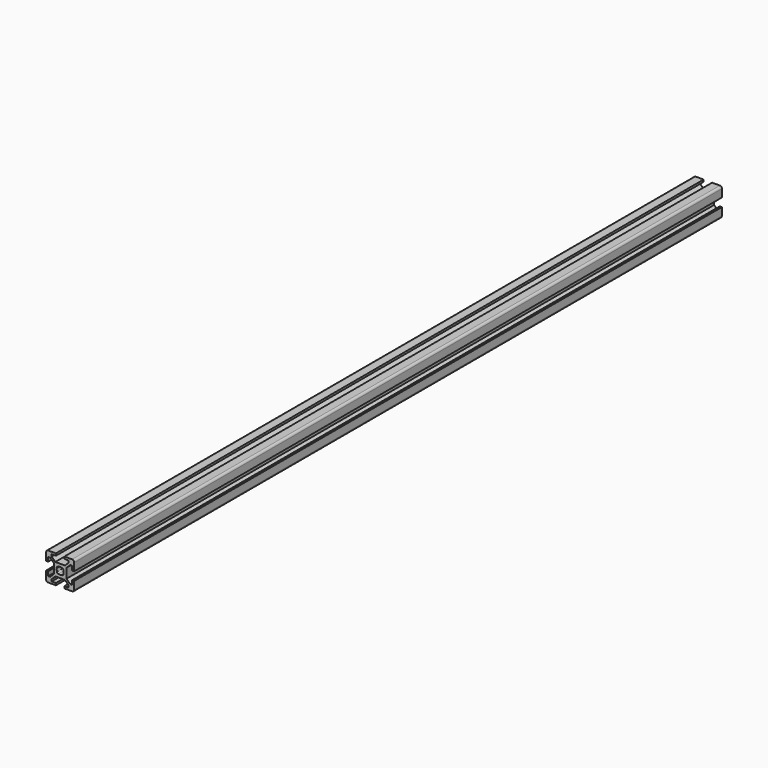
from build123d import *

# Parameters (mm, degrees)
F1_DEPTH = 575


with BuildPart() as f1:
    # F0 (on Front) → F1 (new body)
    with BuildSketch(Plane.XZ):
        with BuildLine():
            Line((3, -10), (8.5, -10))
            ThreePointArc((8.5, -10), (9.5606601718, -9.5606601718), (10, -8.5))
            Line((10, -8.5), (10, -3))
            Line((10, -3), (8.5, -3))
            Line((8.5, -3), (8.5, -6))
            Line((8.5, -6), (7.0606601718, -6))
            Line((7.0606601718, -6), (4.5, -3.4393398282))
            Line((4.5, -3.4393398282), (4.5, 3.4393398282))
            Line((4.5, 3.4393398282), (7.0606601718, 6))
            Line((7.0606601718, 6), (8.5, 6))
            Line((8.5, 6), (8.5, 3))
            Line((8.5, 3), (10, 3))
            Line((10, 3), (10, 8.5))
            ThreePointArc((10, 8.5), (9.5606601718, 9.5606601718), (8.5, 10))
            Line((8.5, 10), (3, 10))
            Line((3, 10), (3, 8.5))
            Line((3, 8.5), (6, 8.5))
            Line((6, 8.5), (6, 7.0606601718))
            Line((6, 7.0606601718), (3.4393398282, 4.5))
            Line((3.4393398282, 4.5), (-3.4393398282, 4.5))
            Line((-3.4393398282, 4.5), (-6, 7.0606601718))
            Line((-6, 7.0606601718), (-6, 8.5))
            Line((-6, 8.5), (-3, 8.5))
            Line((-3, 8.5), (-3, 10))
            Line((-3, 10), (-8.5, 10))
            ThreePointArc((-8.5, 10), (-9.5606601718, 9.5606601718), (-10, 8.5))
            Line((-10, 8.5), (-10, 3))
            Line((-10, 3), (-8.5, 3))
            Line((-8.5, 3), (-8.5, 6))
            Line((-8.5, 6), (-7.0606601718, 6))
            Line((-7.0606601718, 6), (-4.5, 3.4393398282))
            Line((-4.5, 3.4393398282), (-4.5, -3.4393398282))
            Line((-4.5, -3.4393398282), (-7.0606601718, -6))
            Line((-7.0606601718, -6), (-8.5, -6))
            Line((-8.5, -6), (-8.5, -3))
            Line((-8.5, -3), (-10, -3))
            Line((-10, -3), (-10, -8.5))
            ThreePointArc((-10, -8.5), (-9.5606601718, -9.5606601718), (-8.5, -10))
            Line((-8.5, -10), (-3, -10))
            Line((-3, -10), (-3, -8.5))
            Line((-3, -8.5), (-6, -8.5))
            Line((-6, -8.5), (-6, -7.0606601718))
            Line((-6, -7.0606601718), (-3.4393398282, -4.5))
            Line((-3.4393398282, -4.5), (3.4393398282, -4.5))
            Line((3.4393398282, -4.5), (6, -7.0606601718))
            Line((6, -7.0606601718), (6, -8.5))
            Line((6, -8.5), (3, -8.5))
            Line((3, -8.5), (3, -10))
        make_face()
        with BuildLine():
            ThreePointArc((-1.1560121095, 2.2166722813), (0, 2.5), (1.1560121095, 2.2166722813))
            Line((1.1560121095, 2.2166722813), (1.4393398282, 2.5))
            Line((1.4393398282, 2.5), (2.5, 1.4393398282))
            Line((2.5, 1.4393398282), (2.2166722813, 1.1560121095))
            ThreePointArc((2.2166722813, 1.1560121095), (2.5, 0), (2.2166722813, -1.1560121095))
            Line((2.2166722813, -1.1560121095), (2.5, -1.4393398282))
            Line((2.5, -1.4393398282), (1.4393398282, -2.5))
            Line((1.4393398282, -2.5), (1.1560121095, -2.2166722813))
            ThreePointArc((1.1560121095, -2.2166722813), (0, -2.5), (-1.1560121095, -2.2166722813))
            Line((-1.1560121095, -2.2166722813), (-1.4393398282, -2.5))
            Line((-1.4393398282, -2.5), (-2.5, -1.4393398282))
            Line((-2.5, -1.4393398282), (-2.2166722813, -1.1560121095))
            ThreePointArc((-2.2166722813, -1.1560121095), (-2.5, 0), (-2.2166722813, 1.1560121095))
            Line((-2.2166722813, 1.1560121095), (-2.5, 1.4393398282))
            Line((-2.5, 1.4393398282), (-1.4393398282, 2.5))
            Line((-1.4393398282, 2.5), (-1.1560121095, 2.2166722813))
        make_face(mode=Mode.SUBTRACT)
    extrude(amount=F1_DEPTH)


solid = f1.part
